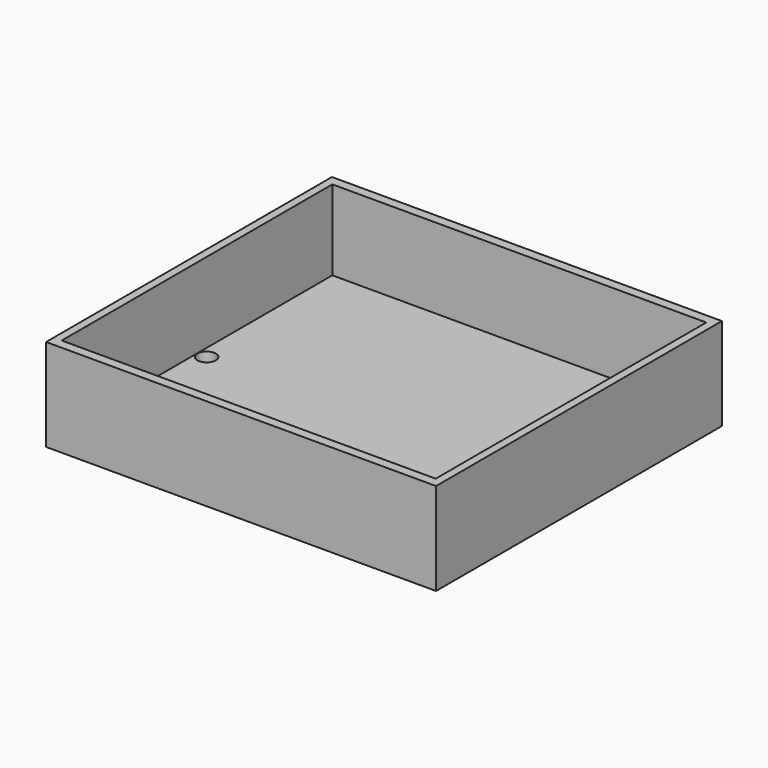
from build123d import *

# Parameters (mm, degrees)
F0_W     = 63.3
F0_H     = 58
F1_DEPTH = 15
F2_W     = 60.7
F2_H     = 54.9
F3_DEPTH = 13
F4_R     = 1.5
F5_DEPTH = 15.001


with BuildPart() as f1:
    # F0 (on Top) → F1 (new body)
    with BuildSketch(Plane.XY):
        Rectangle(F0_W, F0_H)
    extrude(amount=F1_DEPTH)

    # F2 (on face) → F3 (cut)
    with BuildSketch(Plane.XY.offset(15)):
        Rectangle(F2_W, F2_H)
    extrude(amount=-F3_DEPTH, mode=Mode.SUBTRACT)

    # F4 (on face) → F5 (cut, through all)
    with BuildSketch(Plane(origin=(0, 0, 0), x_dir=(1, 0, 0), z_dir=(0, 0, -1))):
        with Locations((28.8, 0)):
            Circle(F4_R)
        with Locations((-28.8, 0)):
            Circle(F4_R)
    extrude(amount=-F5_DEPTH, mode=Mode.SUBTRACT)


solid = f1.part
